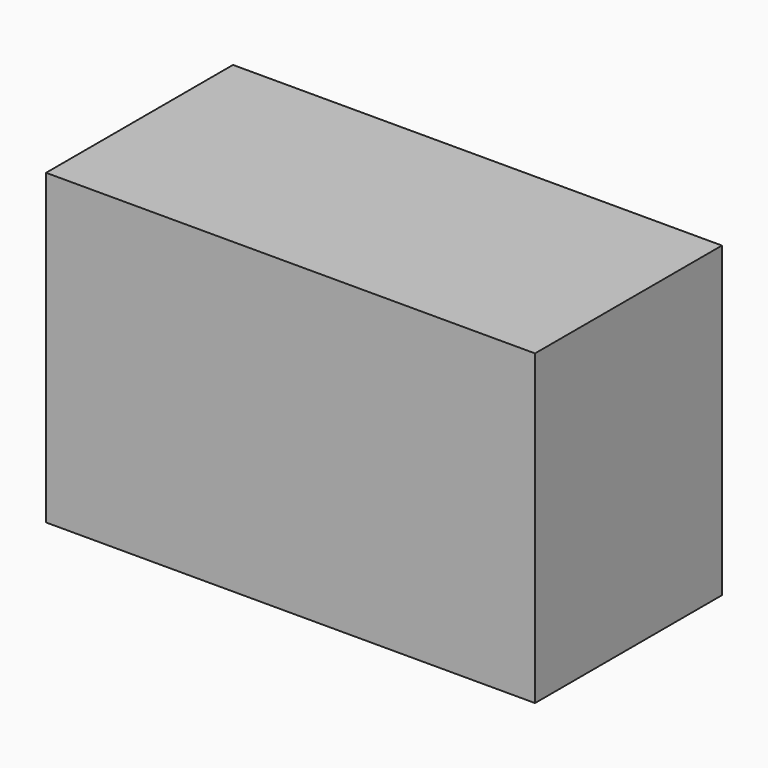
from build123d import *

# Parameters (mm, degrees)
SKETCH_W  = 27
SKETCH_H  = 12.9
PAD_DEPTH = 17


with BuildPart() as part:
    # Sketch → Pad (new body)
    with BuildSketch(Plane.XY):
        with Locations((33.5, 16.45)):
            Rectangle(SKETCH_W, SKETCH_H)
    extrude(amount=PAD_DEPTH)


solid = part.part
